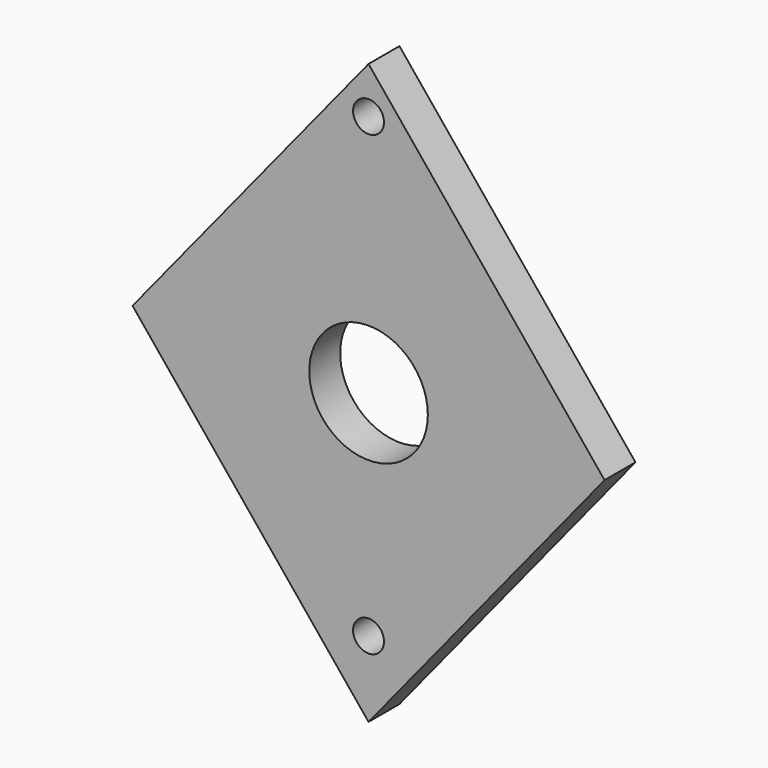
from build123d import *

# Parameters (mm, degrees)
F1_DEPTH = 7.5
F2_R     = 11.50533
F3_DEPTH = 25
F4_R     = 3
F5_DEPTH = 25
F6_R     = 3
F7_DEPTH = 25


with BuildPart() as f1:
    # F0 (on Front) → F1 (new body)
    with BuildSketch(Plane.XZ):
        Polygon((45.799506, 0), (0, 56.201915), (-45.799506, 0), (0, -56.201915), align=None)
    extrude(amount=F1_DEPTH)

    # F2 (on face) → F3 (cut)
    with BuildSketch(Plane.XZ.offset(7.5)):
        Circle(F2_R)
    extrude(amount=-F3_DEPTH, mode=Mode.SUBTRACT)

    # F4 (on face) → F5 (cut)
    with BuildSketch(Plane.XZ.offset(7.5)):
        with Locations((0, 47.198402)):
            Circle(F4_R)
    extrude(amount=-F5_DEPTH, mode=Mode.SUBTRACT)

    # F6 (on face) → F7 (cut)
    with BuildSketch(Plane(origin=(0, 0, 0), x_dir=(-1, 0, 0), z_dir=(0, 1, 0))):
        with Locations((0, -41.517954)):
            Circle(F6_R)
    extrude(amount=-F7_DEPTH, mode=Mode.SUBTRACT)


solid = f1.part
